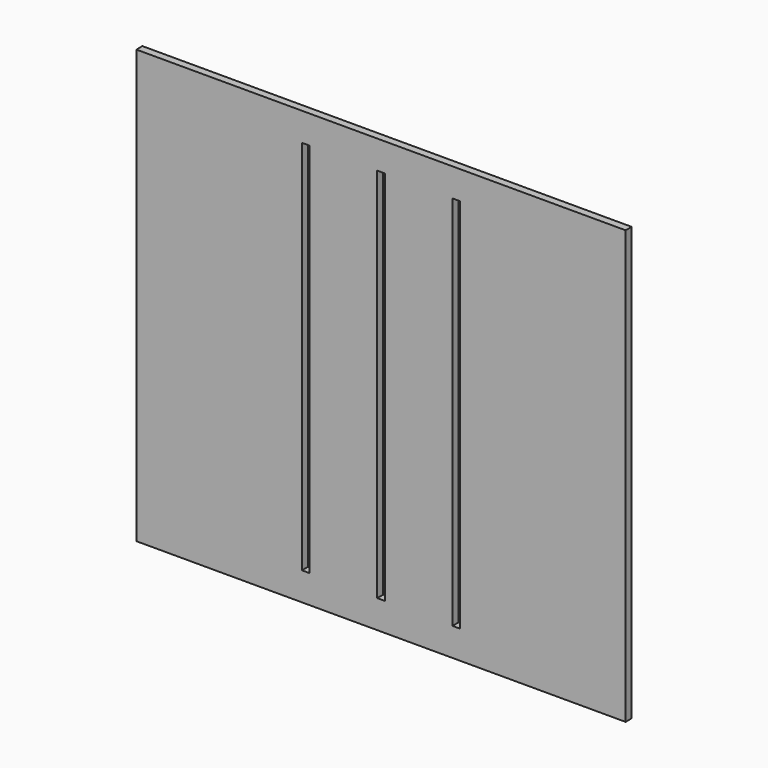
from build123d import *

# Parameters (mm, degrees)
F0_W     = 260
F0_H     = 230
F0_W_2   = 4
F0_H_2   = 200
F1_DEPTH = 4


with BuildPart() as f1:
    # F0 (on Front) → F1 (new body)
    with BuildSketch(Plane.XZ):
        Rectangle(F0_W, F0_H)
        with Locations((-40, 0)):
            Rectangle(F0_W_2, F0_H_2, mode=Mode.SUBTRACT)
        Rectangle(F0_W_2, F0_H_2, mode=Mode.SUBTRACT)
        with Locations((40, 0)):
            Rectangle(F0_W_2, F0_H_2, mode=Mode.SUBTRACT)
    extrude(amount=F1_DEPTH)


solid = f1.part
